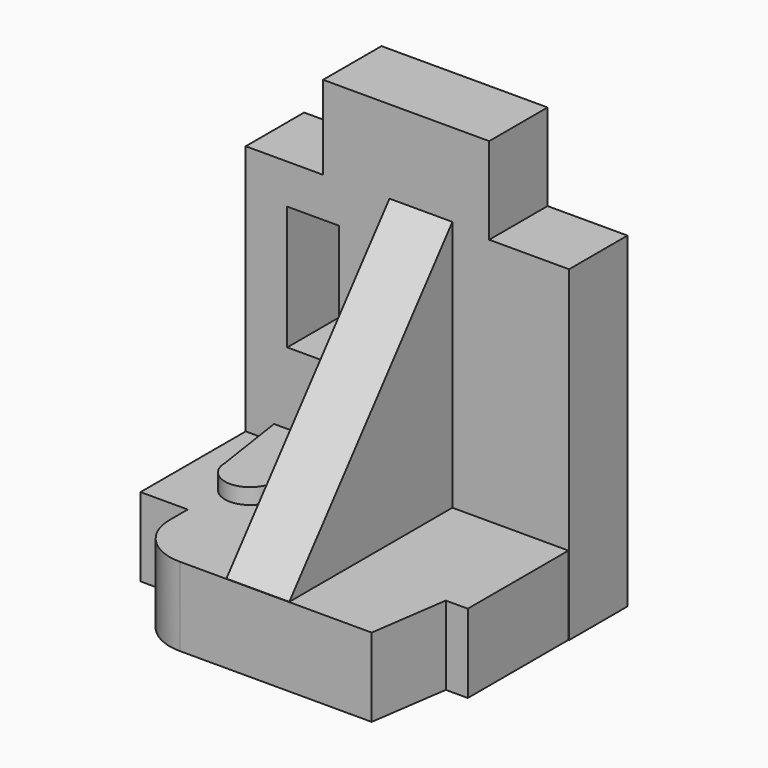
from build123d import *

# Parameters (mm, degrees)
PAD002_DEPTH = 10
SKETCH001_W  = 8.2
SKETCH001_H  = 19.7
PAD001_DEPTH = 11.6
PAD_DEPTH    = 12.5
PAD003_DEPTH = 2.5


with BuildPart() as escuadra:
    # Sketch002 → Pad002 (new body)
    with BuildSketch(Plane.YZ.offset(22.85)):
        Polygon((-44, 12.5), (-11.6, 12.5), (-11.6, 52.5), align=None)
    extrude(amount=PAD002_DEPTH)


with BuildPart() as obj1:
    # Sketch001 → Pad001 (new body)
    with BuildSketch(Plane.XZ):
        Polygon((0, 0), (0, 52.4), (12.3, 52.4), (12.3, 65.7), (38.7, 65.7), (38.7, 51.9), (51.4, 51.9), (51.4, 0), align=None)
        with Locations((10.7, 36.25)):
            Rectangle(SKETCH001_W, SKETCH001_H, mode=Mode.SUBTRACT)
    extrude(amount=PAD001_DEPTH)


with BuildPart() as escuadra_central:
    # Sketch → Pad (new body)
    with BuildSketch(Plane.XY):
        with BuildLine():
            Line((0, 0), (51.3, 0))
            Line((51.3, 0), (51.3, -31.6))
            Line((51.3, -31.6), (47.8, -31.6))
            Line((47.8, -31.6), (46, -44.070766))
            Line((46, -44.070766), (15.5, -44.070766))
            ThreePointArc((7.5, -36.070766), (9.843146, -41.72762), (15.5, -44.070766))
            Line((7.5, -36.070766), (7.5, -32.5))
            Line((7.5, -32.5), (0, -32.5))
            Line((0, -32.5), (0, 0))
        make_face()
    extrude(amount=PAD_DEPTH)

    # Sketch003 → Pad003 (new body)
    with BuildSketch(Plane.XY.offset(12.5)):
        with BuildLine():
            Line((4.5, -11.6), (16.1, -11.6))
            Line((16.1, -11.6), (14.3, -23.6))
            ThreePointArc((6.3, -23.6), (10.3, -27.6), (14.3, -23.6))
            Line((6.3, -23.6), (4.5, -11.6))
        make_face()
    extrude(amount=PAD003_DEPTH)

    # Fusion: union escuadra, obj1
    add(escuadra.part)
    add(obj1.part)


solid = escuadra_central.part
